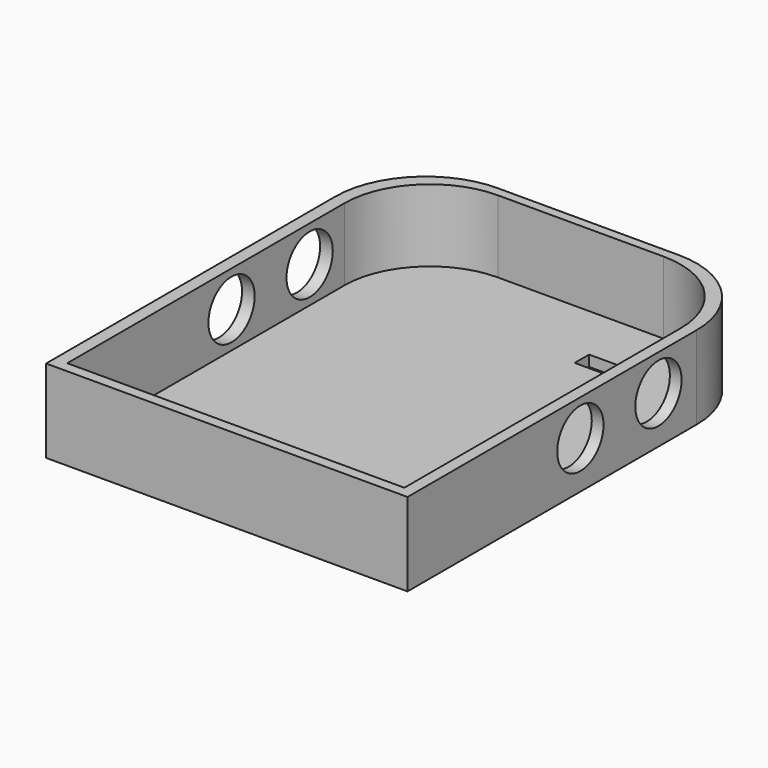
from build123d import *

# Parameters (mm, degrees)
BOX007_W        = 10
BOX007_H        = 5
BOX007_DEPTH    = 10
PAD_DEPTH       = 23
POCKET_DEPTH    = 20
SKETCH002_R     = 8
POCKET001_DEPTH = 100.001


with BuildPart() as cube007:
    # Box007 → Box007 (new body)
    with BuildSketch(Plane(origin=(15, 40, -4), x_dir=(1, 0, 0), z_dir=(0, 0, 1))):
        with Locations((5, 2.5)):
            Rectangle(BOX007_W, BOX007_H)
    extrude(amount=BOX007_DEPTH)


with BuildPart() as cut011:
    # Sketch → Pad (new body)
    with BuildSketch(Plane.XY):
        with BuildLine():
            Line((-50, 38.45712), (-50, -61.54288))
            Line((-50, -61.54288), (50, -61.54288))
            Line((50, -61.54288), (50, 38.45712))
            ThreePointArc((50, 38.45712), (42.67767, 56.13479), (25, 63.45712))
            Line((25, 63.45712), (-25, 63.45712))
            ThreePointArc((-25, 63.45712), (-42.67767, 56.13479), (-50, 38.45712))
        make_face()
    extrude(amount=PAD_DEPTH)

    # Sketch001 → Pocket (cut)
    with BuildSketch(Plane.XY.offset(23)):
        with BuildLine():
            Line((-46.504223, 37.299377), (-46.504223, -58.589802))
            Line((-46.504223, -58.589802), (46.756358, -58.589802))
            Line((46.756358, -58.589802), (46.756358, 36.931984))
            ThreePointArc((46.756358, 36.931984), (39.747359, 53.853203), (22.82614, 60.862202))
            Line((22.82614, 60.862202), (-22.941398, 60.862202))
            ThreePointArc((-22.941398, 60.862202), (-39.602831, 53.96081), (-46.504223, 37.299377))
        make_face()
    extrude(amount=-POCKET_DEPTH, mode=Mode.SUBTRACT)

    # Sketch002 → Pocket001 (cut, through all)
    with BuildSketch(Plane.YZ.offset(50)):
        with Locations((-1.771652, 13)):
            Circle(SKETCH002_R)
        with Locations((25.228348, 13)):
            Circle(SKETCH002_R)
    extrude(amount=-POCKET001_DEPTH, mode=Mode.SUBTRACT)

    # Cut011: cut Cube007
    add(cube007.part, mode=Mode.SUBTRACT)


solid = cut011.part
